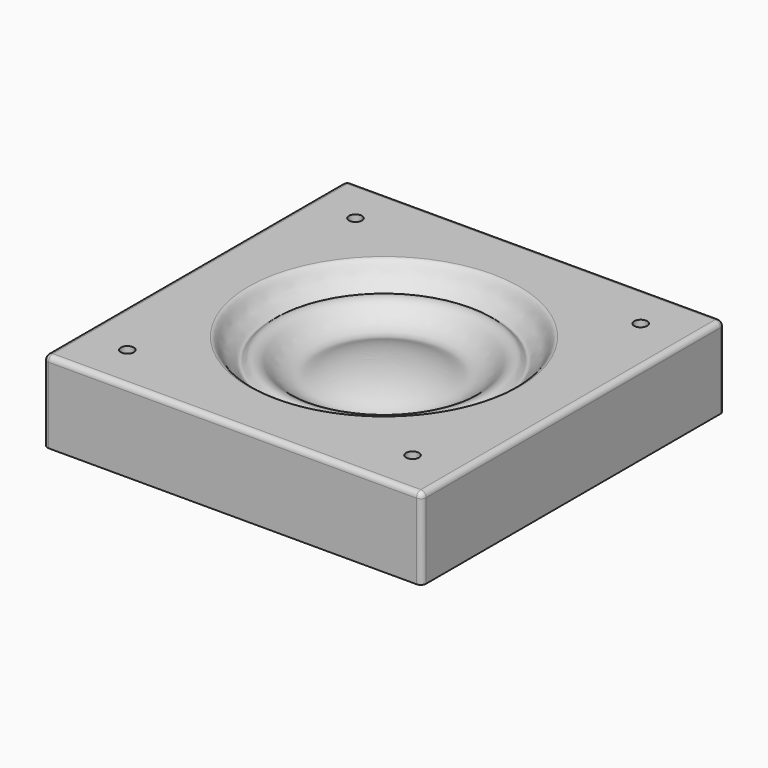
from build123d import *

# Parameters (mm, degrees)
F3_DEPTH = 19.05
F4_R     = 1.27
F5_R     = 1.143
F6_DEPTH = 19.051
F5_R_2   = 1.524
F7_DEPTH = 2.54


with BuildPart() as f1:
    # F0 (on Front) → F1 (revolve)
    with BuildSketch(Plane.XZ):
        with BuildLine():
            Line((44.45, 0), (44.45, 19.05))
            Line((44.45, 19.05), (32.5831812388, 19.05))
            Line((32.5831812388, 19.05), (31.8430524831, 19.05))
            add(Edge.make_bspline(
                [(31.8430524831, 19.05), (30.8689221212, 18.9802011565), (29.8627306323, 16.2488706166), (28.0966354441, 15.4760789224), (26.3999857389, 13.3501170166), (25.1129431354, 15.4487673344), (22.290366868, 14.8911495391), (20.2790890798, 12.2640383952), (16.1024312734, 10.2245936819), (12.2327761722, 12.1993870362), (6.3942289854, 14.4550088103), (0, 14.3365386442)],
                knots=[0, 0, 0, 0, 0.1060699652, 0.1932935704, 0.2769325799, 0.3540227049, 0.4454383371, 0.554157978, 0.6746311283, 0.787205531, 1, 1, 1, 1], degree=3))
            Line((0, 14.3365386442), (0, 0))
            Line((0, 0), (44.45, 0))
        make_face()
    revolve(axis=Axis((0, 0, 7.1682693221), (0, 0, -1)))

    # F2 (on face) → F3 (join, through all)
    with BuildSketch(Plane(origin=(0, 0, 0), x_dir=(1, 0, 0), z_dir=(0, 0, -1))):
        with BuildLine():
            ThreePointArc((0, -44.45), (-31.4308964559, -31.4308963916), (-44.45, 9.1e-08))
            Line((-44.45, 9.1e-08), (-44.45, -44.45))
            Line((-44.45, -44.45), (0, -44.45))
        make_face()
        with BuildLine():
            Line((44.45, -44.45), (44.45, 0))
            ThreePointArc((44.45, 0), (31.4308964237, -31.4308964237), (0, -44.45))
            Line((0, -44.45), (44.45, -44.45))
        make_face()
        with BuildLine():
            Line((44.45, 44.45), (0, 44.45))
            ThreePointArc((0, 44.45), (31.4308964237, 31.4308964237), (44.45, 0))
            Line((44.45, 0), (44.45, 44.45))
        make_face()
        with BuildLine():
            ThreePointArc((-44.45, 9.1e-08), (-31.4308963916, 31.4308964559), (0, 44.45))
            Line((0, 44.45), (-44.45, 44.45))
            Line((-44.45, 44.45), (-44.45, 9.1e-08))
        make_face()
    extrude(amount=-F3_DEPTH)

    # F4
    f4_edges = [f1.edges().sort_by_distance(p)[0] for p in [
        (0, 44.45, 19.05),
        (44.45, 0, 19.05),
        (44.45, 44.45, 9.525),
        (44.45, -44.45, 9.525),
        (0, -44.45, 19.05),
        (-44.45, 0, 19.05),
        (-44.45, 44.45, 9.525),
        (-44.45, -44.45, 9.525),
    ]]
    fillet(f4_edges, radius=F4_R)

    # F5 (on face) → F6 (cut, through all)
    with BuildSketch(Plane.XY.offset(19.05)):
        with Locations((-33.4832191722, 33.4832191722)):
            Circle(F5_R)
        with Locations((-33.4832191722, -33.4832191722)):
            Circle(F5_R)
        with Locations((33.4832191722, -33.4832191722)):
            Circle(F5_R)
        with Locations((33.4832191722, 33.4832191722)):
            Circle(F5_R)
    extrude(amount=-F6_DEPTH, mode=Mode.SUBTRACT)

    # F5 (on face) → F7 (cut)
    with BuildSketch(Plane.XY.offset(19.05)):
        with Locations((-33.4832191722, 33.4832191722)):
            Circle(F5_R_2)
        with Locations((-33.4832191722, 33.4832191722)):
            Circle(F5_R, mode=Mode.SUBTRACT)
        with Locations((33.4832191722, 33.4832191722)):
            Circle(F5_R_2)
        with Locations((33.4832191722, 33.4832191722)):
            Circle(F5_R, mode=Mode.SUBTRACT)
        with Locations((33.4832191722, -33.4832191722)):
            Circle(F5_R_2)
        with Locations((33.4832191722, -33.4832191722)):
            Circle(F5_R, mode=Mode.SUBTRACT)
        with Locations((-33.4832191722, -33.4832191722)):
            Circle(F5_R_2)
        with Locations((-33.4832191722, -33.4832191722)):
            Circle(F5_R, mode=Mode.SUBTRACT)
    extrude(amount=-F7_DEPTH, mode=Mode.SUBTRACT)

    # F8 (on Right) → F9 (revolve, cut)
    with BuildSketch(Plane.YZ):
        Polygon((-31.75, 0), (-25.4, 0), (-19.05, 0), (-25.4, 6.35), align=None)
    revolve(axis=Axis((0, 0, 3.175), (0, 0, 1)), mode=Mode.SUBTRACT)


solid = f1.part
